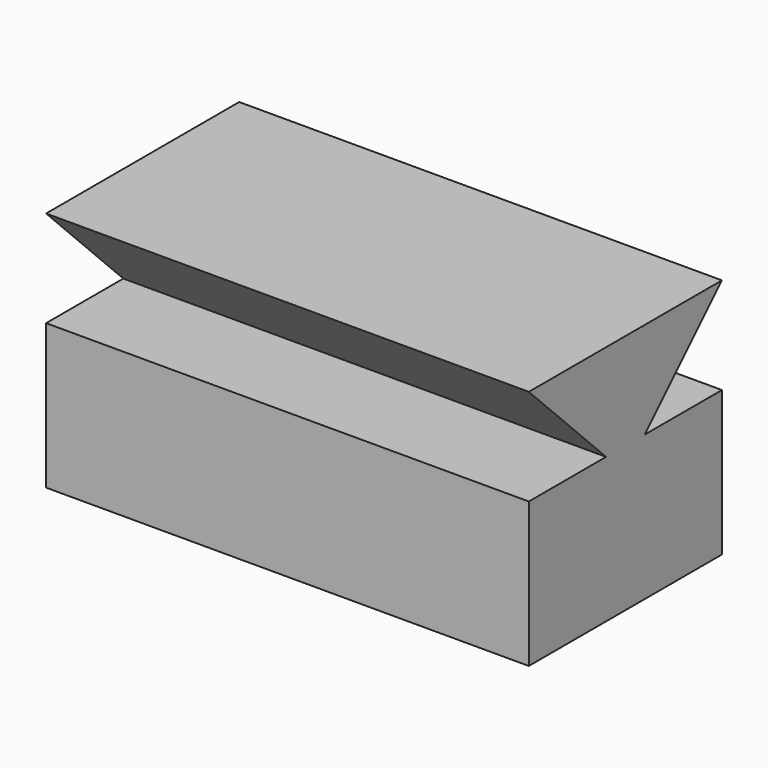
from build123d import *

# Parameters (mm, degrees)
F1_DEPTH = 101.6
F2_DEPTH = 127


with BuildPart() as f1:
    # F0 (on Right) → F1 (new body)
    with BuildSketch(Plane.YZ):
        Polygon((6.35, 6.35), (31.75, 31.75), (-31.75, 31.75), (-6.35, 6.35), (-31.75, 6.35), (-31.75, -31.75), (31.75, -31.75), (31.75, 6.35), align=None)
    extrude(amount=F1_DEPTH)

    # F0 (on Right) → F2 (join)
    with BuildSketch(Plane.YZ):
        Polygon((6.35, 6.35), (31.75, 31.75), (-31.75, 31.75), (-6.35, 6.35), (-31.75, 6.35), (-31.75, -31.75), (31.75, -31.75), (31.75, 6.35), align=None)
    extrude(amount=F2_DEPTH)


solid = f1.part
